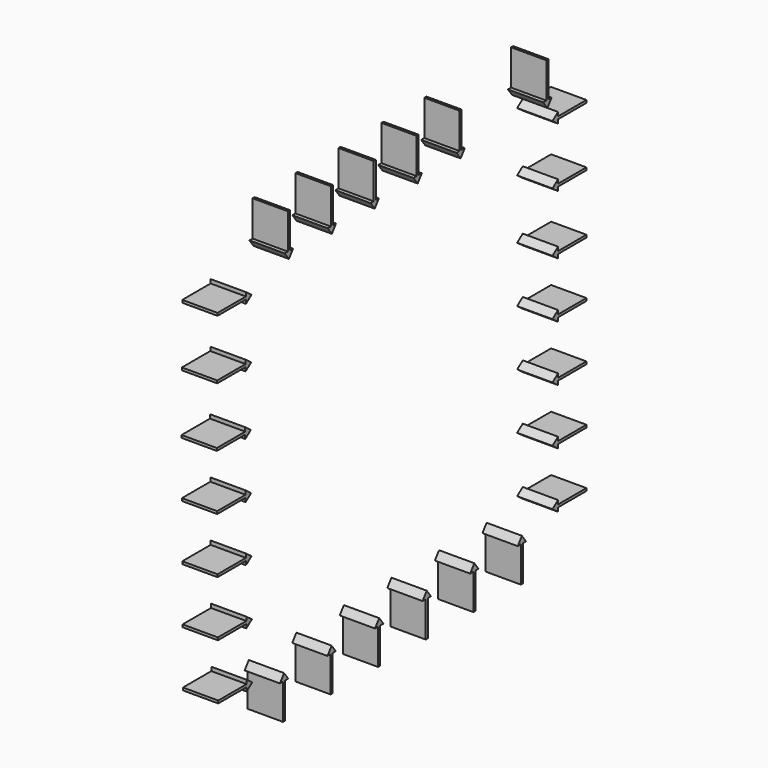
from build123d import *

# Parameters (mm, degrees)
F0_W     = 1.0048788058
F0_H     = 0.073666525
F1_DEPTH = 1
F0_W_2   = 0.073666525
F0_H_2   = 1.0048788058


with BuildPart() as f1:
    # F0 (on Right) → F1 (new body)
    with BuildSketch(Plane.YZ):
        with Locations((11.8049496252, -2.7231206903)):
            Rectangle(F0_W, F0_H)
        Polygon((11.3025102224, -2.6862874278), (11.3025102224, -2.5757876403), (11.1032295972, -2.7231206903), (11.3025102224, -2.8704537403), (11.3025102224, -2.7599539528), align=None)
    extrude(amount=-F1_DEPTH)


with BuildPart() as f1b:
    # F0 (on Right) → F1, piece 2 (new body)
    with BuildSketch(Plane.YZ):
        with Locations((11.8049496252, -4.4035906903)):
            Rectangle(F0_W, F0_H)
        Polygon((11.3025102224, -4.4404239528), (11.3025102224, -4.3667574278), (11.3025102224, -4.2562576403), (11.1032295972, -4.4035906903), (11.3025102224, -4.5509237403), align=None)
    extrude(amount=-F1_DEPTH)


with BuildPart() as f1c:
    # F0 (on Right) → F1, piece 3 (new body)
    with BuildSketch(Plane.YZ):
        with Locations((-0.2434551458, -9.1423188318)):
            Rectangle(F0_W, F0_H)
        Polygon((0.2589842571, -9.1791520943), (0.2589842571, -9.2896518818), (0.4582648823, -9.1423188318), (0.2589842571, -8.9949857818), (0.2589842571, -9.1054855693), align=None)
    extrude(amount=-F1_DEPTH)


with BuildPart() as f1d:
    # F0 (on Right) → F1, piece 4 (new body)
    with BuildSketch(Plane.YZ):
        with Locations((11.8049496252, -7.5635906903)):
            Rectangle(F0_W, F0_H)
        Polygon((11.3025102224, -7.7109237403), (11.3025102224, -7.6004239528), (11.3025102224, -7.5267574278), (11.3025102224, -7.4162576403), (11.1032295972, -7.5635906903), align=None)
    extrude(amount=-F1_DEPTH)


with BuildPart() as f1e:
    # F0 (on Right) → F1, piece 5 (new body)
    with BuildSketch(Plane.YZ):
        with Locations((11.8049496252, -9.1435906903)):
            Rectangle(F0_W, F0_H)
        Polygon((11.3025102224, -9.2909237403), (11.3025102224, -9.1804239528), (11.3025102224, -9.1067574278), (11.3025102224, -8.9962576403), (11.1032295972, -9.1435906903), align=None)
    extrude(amount=-F1_DEPTH)


with BuildPart() as f1f:
    # F0 (on Right) → F1, piece 6 (new body)
    with BuildSketch(Plane.YZ):
        with Locations((11.8049496252, -10.7235906903)):
            Rectangle(F0_W, F0_H)
        Polygon((11.3025102224, -10.8709237403), (11.3025102224, -10.7604239528), (11.3025102224, -10.6867574278), (11.3025102224, -10.5762576403), (11.1032295972, -10.7235906903), align=None)
    extrude(amount=-F1_DEPTH)


with BuildPart() as f1g:
    # F0 (on Right) → F1, piece 7 (new body)
    with BuildSketch(Plane.YZ):
        with Locations((11.8049496252, -1.0426506903)):
            Rectangle(F0_W, F0_H)
        Polygon((11.3025102224, -1.0058174278), (11.3025102224, -0.8953176403), (11.1032295972, -1.0426506903), (11.3025102224, -1.1899837403), (11.3025102224, -1.0794839528), align=None)
    extrude(amount=-F1_DEPTH)


with BuildPart() as f1h:
    # F0 (on Right) → F1, piece 8 (new body)
    with BuildSketch(Plane.YZ):
        with Locations((-0.2314024201, -10.721894879)):
            Rectangle(F0_W, F0_H)
        Polygon((0.2710369828, -10.7587281415), (0.2710369828, -10.869227929), (0.4703176079, -10.721894879), (0.2710369828, -10.574561829), (0.2710369828, -10.6850616165), align=None)
    extrude(amount=-F1_DEPTH)


with BuildPart() as f1i:
    # F0 (on Right) → F1, piece 9 (new body)
    with BuildSketch(Plane.YZ):
        with Locations((11.8049496252, -5.9835906903)):
            Rectangle(F0_W, F0_H)
        Polygon((11.3025102224, -6.1309237403), (11.3025102224, -6.0204239528), (11.3025102224, -5.9467574278), (11.3025102224, -5.9463339528), (11.3025102224, -5.8362576403), (11.1032295972, -5.9835906903), align=None)
    extrude(amount=-F1_DEPTH)


with BuildPart() as f1j:
    # F0 (on Right) → F1, piece 10 (new body)
    with BuildSketch(Plane.YZ):
        with Locations((4.8104260283, 0.0307678848)):
            Rectangle(F0_W_2, F0_H_2)
        Polygon((4.9577590783, -0.4716715181), (4.8472592908, -0.4716715181), (4.7735927658, -0.4716715181), (4.6630929783, -0.4716715181), (4.8104260283, -0.6709521432), align=None)
    extrude(amount=-F1_DEPTH)


with BuildPart() as f1k:
    # F0 (on Right) → F1, piece 11 (new body)
    with BuildSketch(Plane.YZ):
        with Locations((10.9241437167, 0.0579114587)):
            Rectangle(F0_W_2, F0_H_2)
        Polygon((11.0714767667, -0.4445279441), (10.9609769792, -0.4445279441), (10.8873104542, -0.4445279441), (10.7768106667, -0.4445279441), (10.9241437167, -0.6438085693), align=None)
    extrude(amount=-F1_DEPTH)


with BuildPart() as f1l:
    # F0 (on Right) → F1, piece 12 (new body)
    with BuildSketch(Plane.YZ):
        with Locations((10.0216377801, -11.6493069503)):
            Rectangle(F0_W_2, F0_H_2)
        Polygon((9.8743047301, -11.1468675475), (9.9848045176, -11.1468675475), (10.0584710426, -11.1468675475), (10.1689708301, -11.1468675475), (10.0216377801, -10.9475869223), align=None)
    extrude(amount=-F1_DEPTH)


with BuildPart() as f1m:
    # F0 (on Right) → F1, piece 13 (new body)
    with BuildSketch(Plane.YZ):
        with Locations((-0.2675605971, -5.9831667375)):
            Rectangle(F0_W, F0_H)
        Polygon((0.2348788058, -6.02), (0.2348788058, -6.1304997875), (0.4341594309, -5.9831667375), (0.2348788058, -5.8358336875), (0.2348788058, -5.946333475), align=None)
    extrude(amount=-F1_DEPTH)


with BuildPart() as f1n:
    # F0 (on Right) → F1, piece 14 (new body)
    with BuildSketch(Plane.YZ):
        with Locations((8.3369377801, -11.6493069503)):
            Rectangle(F0_W_2, F0_H_2)
        Polygon((8.1896047301, -11.1468675475), (8.3001045176, -11.1468675475), (8.3737710426, -11.1468675475), (8.4842708301, -11.1468675475), (8.3369377801, -10.9475869223), align=None)
    extrude(amount=-F1_DEPTH)


with BuildPart() as f1o:
    # F0 (on Right) → F1, piece 15 (new body)
    with BuildSketch(Plane.YZ):
        with Locations((3.29, 0.021720028)):
            Rectangle(F0_W_2, F0_H_2)
        Polygon((3.43733305, -0.4807193749), (3.3268332625, -0.4807193749), (3.2531667375, -0.4807193749), (3.14266695, -0.4807193749), (3.29, -0.68), align=None)
    extrude(amount=-F1_DEPTH)


with BuildPart() as f1p:
    # F0 (on Right) → F1, piece 16 (new body)
    with BuildSketch(Plane.YZ):
        with Locations((1.5981377801, -11.6493069503)):
            Rectangle(F0_W_2, F0_H_2)
        Polygon((1.4508047301, -11.1468675475), (1.5613045176, -11.1468675475), (1.6349710426, -11.1468675475), (1.7454708301, -11.1468675475), (1.5981377801, -10.9475869223), align=None)
    extrude(amount=-F1_DEPTH)


with BuildPart() as f1q:
    # F0 (on Right) → F1, piece 17 (new body)
    with BuildSketch(Plane.YZ):
        with Locations((7.8512780848, 0.0488635983)):
            Rectangle(F0_W_2, F0_H_2)
        Polygon((7.9986111348, -0.4535758046), (7.8881113473, -0.4535758046), (7.8144448223, -0.4535758046), (7.7039450348, -0.4535758046), (7.8512780848, -0.6528564297), align=None)
    extrude(amount=-F1_DEPTH)


with BuildPart() as f1r:
    # F0 (on Right) → F1, piece 18 (new body)
    with BuildSketch(Plane.YZ):
        with Locations((1.7695739717, 0.0126721713)):
            Rectangle(F0_W_2, F0_H_2)
        Polygon((1.8064072342, -0.4897672316), (1.7327407092, -0.4897672316), (1.6222409217, -0.4897672316), (1.7695739717, -0.6890478568), (1.9169070217, -0.4897672316), align=None)
    extrude(amount=-F1_DEPTH)


with BuildPart() as f1s:
    # F0 (on Right) → F1, piece 19 (new body)
    with BuildSketch(Plane.YZ):
        with Locations((-0.2555078714, -1.0427427847)):
            Rectangle(F0_W, F0_H)
        Polygon((0.2469315315, -1.0059095222), (0.2469315315, -1.0795760472), (0.2469315315, -1.1900758347), (0.4462121566, -1.0427427847), (0.2469315315, -0.8954097347), align=None)
    extrude(amount=-F1_DEPTH)


with BuildPart() as f1t:
    # F0 (on Right) → F1, piece 20 (new body)
    with BuildSketch(Plane.YZ):
        with Locations((6.3308520565, 0.0398157415)):
            Rectangle(F0_W_2, F0_H_2)
        Polygon((6.4781851065, -0.4626236613), (6.367685319, -0.4626236613), (6.294018794, -0.4626236613), (6.1835190065, -0.4626236613), (6.3308520565, -0.6619042865), align=None)
    extrude(amount=-F1_DEPTH)


with BuildPart() as f1u:
    # F0 (on Right) → F1, piece 21 (new body)
    with BuildSketch(Plane.YZ):
        with Locations((6.6522377801, -11.6493069503)):
            Rectangle(F0_W_2, F0_H_2)
        Polygon((6.5049047301, -11.1468675475), (6.6154045176, -11.1468675475), (6.6890710426, -11.1468675475), (6.7995708301, -11.1468675475), (6.6522377801, -10.9475869223), align=None)
    extrude(amount=-F1_DEPTH)


with BuildPart() as f1v:
    # F0 (on Right) → F1, piece 22 (new body)
    with BuildSketch(Plane.YZ):
        with Locations((4.9675377801, -11.6493069503)):
            Rectangle(F0_W_2, F0_H_2)
        Polygon((4.8202047301, -11.1468675475), (4.9307045176, -11.1468675475), (5.0043710426, -11.1468675475), (5.1148708301, -11.1468675475), (4.9675377801, -10.9475869223), align=None)
    extrude(amount=-F1_DEPTH)


with BuildPart() as f1w:
    # F0 (on Right) → F1, piece 23 (new body)
    with BuildSketch(Plane.YZ):
        with Locations((-0.2675605971, -2.7231667375)):
            Rectangle(F0_W, F0_H)
        Polygon((0.2348788058, -2.686333475), (0.2348788058, -2.76), (0.2348788058, -2.8704997875), (0.4341594309, -2.7231667375), (0.2348788058, -2.5758336875), align=None)
    extrude(amount=-F1_DEPTH)


with BuildPart() as f1x:
    # F0 (on Right) → F1, piece 24 (new body)
    with BuildSketch(Plane.YZ):
        with Locations((-0.2555078714, -7.5627427847)):
            Rectangle(F0_W, F0_H)
        Polygon((0.2469315315, -7.5995760472), (0.2469315315, -7.7100758347), (0.4462121566, -7.5627427847), (0.2469315315, -7.4154097347), (0.2469315315, -7.5259095222), align=None)
    extrude(amount=-F1_DEPTH)


with BuildPart() as f1y:
    # F0 (on Right) → F1, piece 25 (new body)
    with BuildSketch(Plane.YZ):
        with Locations((3.2828377801, -11.6493069503)):
            Rectangle(F0_W_2, F0_H_2)
        Polygon((3.1355047301, -11.1468675475), (3.2460045176, -11.1468675475), (3.3196710426, -11.1468675475), (3.4301708301, -11.1468675475), (3.2828377801, -10.9475869223), align=None)
    extrude(amount=-F1_DEPTH)


with BuildPart() as f1z:
    # F0 (on Right) → F1, piece 26 (new body)
    with BuildSketch(Plane.YZ):
        with Locations((-0.2796133228, -4.4035906903)):
            Rectangle(F0_W, F0_H)
        Polygon((0.4221067053, -4.4035906903), (0.2228260801, -4.2562576403), (0.2228260801, -4.3667574278), (0.2228260801, -4.4404239528), (0.2228260801, -4.5509237403), align=None)
    extrude(amount=-F1_DEPTH)


solid = Compound([f1.part, f1b.part, f1c.part, f1d.part, f1e.part, f1f.part, f1g.part, f1h.part, f1i.part, f1j.part, f1k.part, f1l.part, f1m.part, f1n.part, f1o.part, f1p.part, f1q.part, f1r.part, f1s.part, f1t.part, f1u.part, f1v.part, f1w.part, f1x.part, f1y.part, f1z.part])
